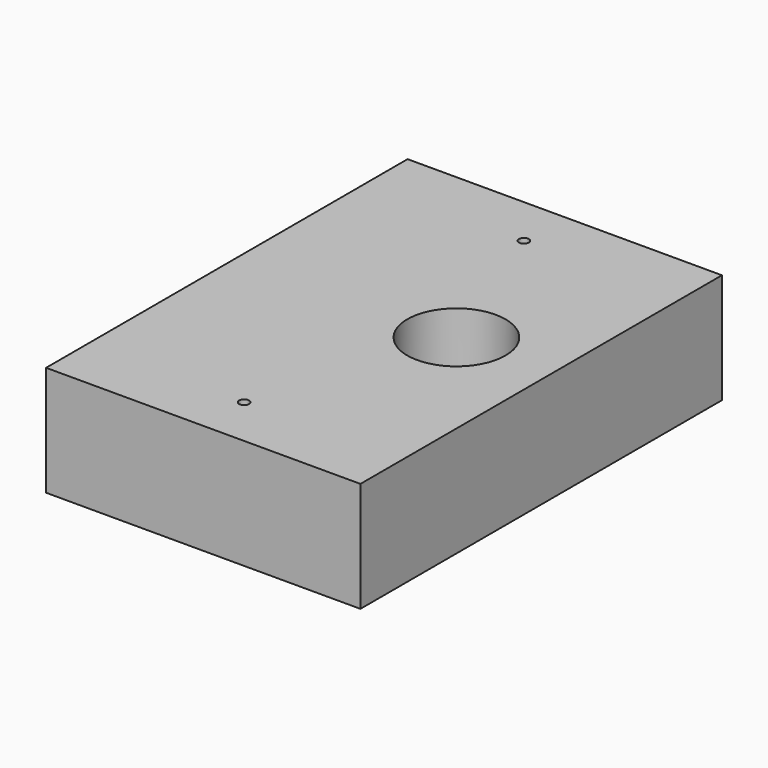
from build123d import *

# Parameters (mm, degrees)
F0_W     = 80
F0_H     = 115
F0_R     = 12.5
F1_DEPTH = 28
F2_D     = 2.5


with BuildPart() as f1:
    # F0 (on Top) → F1 (new body)
    with BuildSketch(Plane.XY):
        with Locations((40, 57.5)):
            Rectangle(F0_W, F0_H)
        with Locations((55.5, 61.1584670842)):
            Circle(F0_R, mode=Mode.SUBTRACT)
    extrude(amount=F1_DEPTH)

    # F2 (through all)
    with Locations(Plane(origin=(0, 0, 0), x_dir=(1, 0, 0), z_dir=(0, 0, -1))):
        with Locations((40, -13), (40, -102)):
            Hole(F2_D / 2)


solid = f1.part
